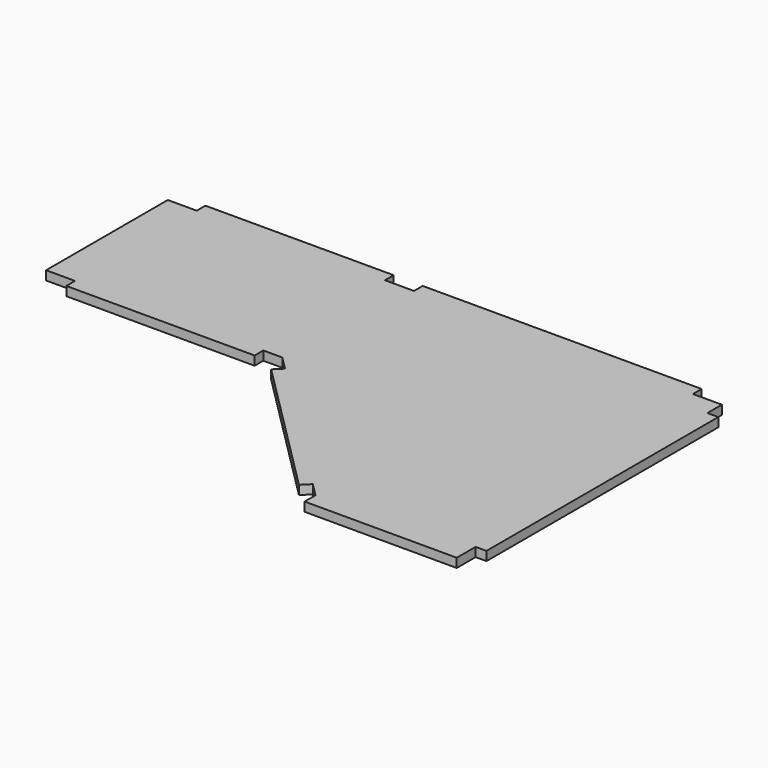
from build123d import *

# Parameters (mm, degrees)
F1_DEPTH = 15.875


with BuildPart() as f1:
    # F0 (on Top) → F1 (new body)
    with BuildSketch(Plane.XY):
        Polygon((-114.410472, 425.45), (-444.5, 425.45), (-444.5, 406.4), (-495.284437, 406.4), (-495.284437, 139.7), (-444.5, 139.7), (-444.5, 120.65), (-114.410472, 120.65), (-114.410472, 139.7), (-81.119703, 139.7), (-57.579575, 116.159872), (-71.04996, 102.689488), (172.539488, -140.89996), (186.009872, -127.429575), (209.55, -150.969703), (209.55, -174.735472), (476.25, -174.735472), (476.25, -133.460472), (495.3, -133.460472), (495.3, 374.65), (476.25, 374.65), (476.25, 406.4), (425.45, 406.4), (425.45, 425.45), (-63.610472, 425.45), (-63.610472, 406.4), (-114.410472, 406.4), align=None)
    extrude(amount=F1_DEPTH)


solid = f1.part
